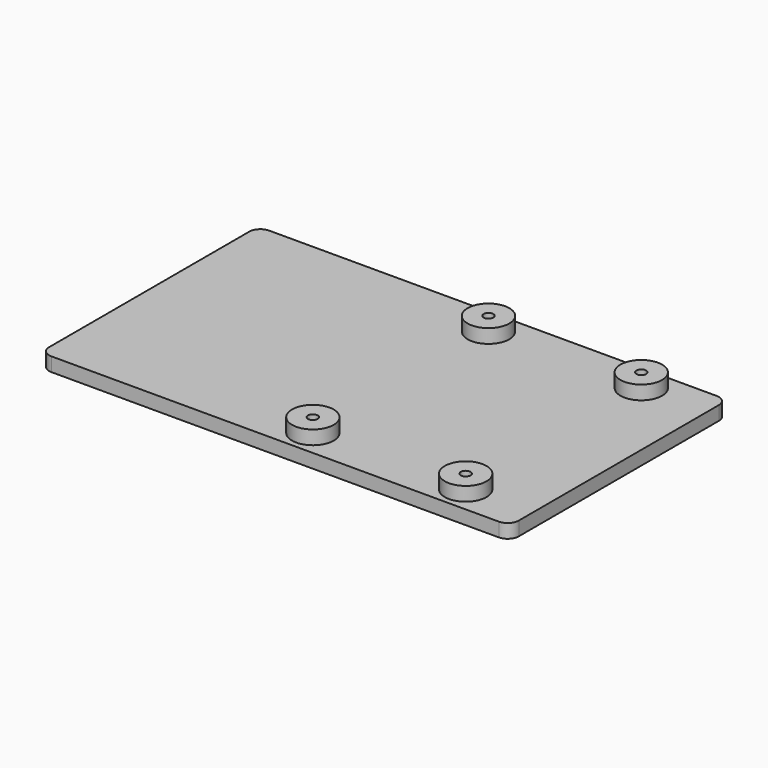
from build123d import *

# Parameters (mm, degrees)
SKETCH_W      = 169
SKETCH_H      = 98
PAD_DEPTH     = 5
SKETCH001_R   = 1.75
POCKET_DEPTH  = 5.001
FILLET_R      = 4
SKETCH002_R   = 7.5
SKETCH002_R_2 = 1.75
PAD001_DEPTH  = 5


with BuildPart() as part:
    # Sketch → Pad (new body)
    with BuildSketch(Plane.XY):
        Rectangle(SKETCH_W, SKETCH_H)
    extrude(amount=PAD_DEPTH)

    # Sketch001 (on Face6 of Pad) → Pocket (cut, through all)
    with BuildSketch(Plane.XY.offset(5)):
        with Locations((6, 39.5)):
            Circle(SKETCH001_R)
        with Locations((61, 39.5)):
            Circle(SKETCH001_R)
        with Locations((61, -39.5)):
            Circle(SKETCH001_R)
        with Locations((6, -39.5)):
            Circle(SKETCH001_R)
    extrude(amount=-POCKET_DEPTH, mode=Mode.SUBTRACT)

    # Fillet
    fillet_edges = [part.edges().sort_by_distance(p)[0] for p in [
        (-84.5, 49, 2.5),
        (-84.5, -49, 2.5),
        (84.5, -49, 2.5),
        (84.5, 49, 2.5),
    ]]
    fillet(fillet_edges, radius=FILLET_R)

    # Sketch002 (on Face5 of Pocket) → Pad001 (join)
    with BuildSketch(Plane.XY.offset(5)):
        with Locations((6, 39.5)):
            Circle(SKETCH002_R)
        with Locations((6, 39.5)):
            Circle(SKETCH002_R_2, mode=Mode.SUBTRACT)
        with Locations((61, 39.5)):
            Circle(SKETCH002_R)
        with Locations((61, 39.5)):
            Circle(SKETCH002_R_2, mode=Mode.SUBTRACT)
        with Locations((6, -39.5)):
            Circle(SKETCH002_R)
        with Locations((6, -39.5)):
            Circle(SKETCH002_R_2, mode=Mode.SUBTRACT)
        with Locations((61, -39.5)):
            Circle(SKETCH002_R)
        with Locations((61, -39.5)):
            Circle(SKETCH002_R_2, mode=Mode.SUBTRACT)
    extrude(amount=PAD001_DEPTH)


solid = part.part
